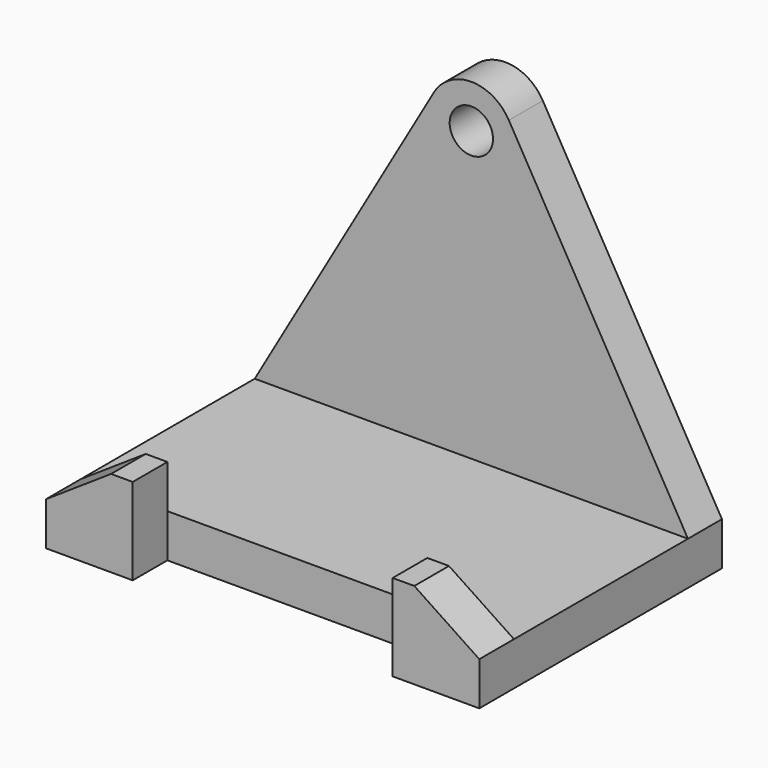
from build123d import *

# Parameters (mm, degrees)
F0_R     = 5
F1_DEPTH = 9.8
F2_W     = 100
F2_H     = 60
F3_DEPTH = 10
F5_DEPTH = 10


with BuildPart() as f1:
    # F0 (on Front) → F1 (new body)
    with BuildSketch(Plane.XZ):
        with BuildLine():
            Line((50, -24.543892), (8.660254, 47.058649))
            ThreePointArc((8.660254, 47.058649), (0, 52.058649), (-8.660254, 47.058649))
            Line((-8.660254, 47.058649), (-50, -24.543892))
            Line((-50, -24.543892), (50, -24.543892))
        make_face()
        with Locations((0, 42.058649)):
            Circle(F0_R, mode=Mode.SUBTRACT)
    extrude(amount=F1_DEPTH)

    # F2 (on face) → F3 (join)
    with BuildSketch(Plane(origin=(0, 0, -24.543892), x_dir=(1, 0, 0), z_dir=(0, 0, -1))):
        with Locations((0, 30)):
            Rectangle(F2_W, F2_H)
    extrude(amount=F3_DEPTH)

    # F4 (on face) → F5 (join)
    with BuildSketch(Plane.XZ.offset(60)):
        Polygon((-35, -14.543892), (-50, -24.543892), (-50, -34.543892), (-30, -34.543892), (-30, -14.543892), align=None)
        Polygon((50, -34.543892), (50, -24.543892), (35, -14.543892), (30, -14.543892), (30, -34.543892), align=None)
    extrude(amount=F5_DEPTH)


solid = f1.part
